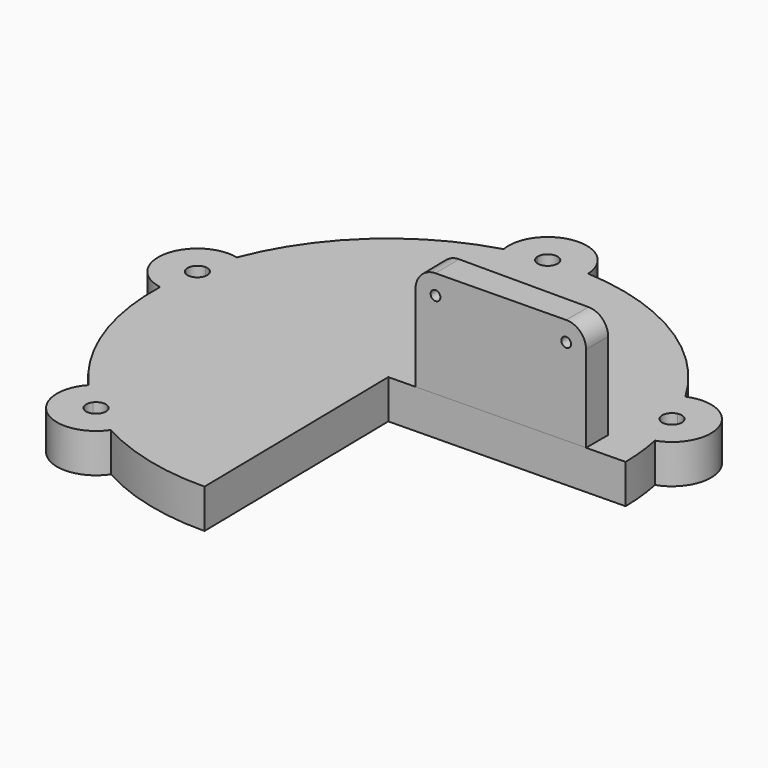
from build123d import *

# Parameters (mm, degrees)
F1_DEPTH = 3.175
F3_DEPTH = 8.636
F4_R     = 1.6002
F5_R     = 0.3937
F6_DEPTH = 25.4
F7_DEPTH = 25.4


with BuildPart() as f1:
    # F0 (on Top) → F1 (new body)
    with BuildSketch(Plane.XY):
        with BuildLine():
            ThreePointArc((31.2392285465, -28.7320576953), (35.8370397612, -30.5372732521), (40.7444173623, -31.0996932487))
            Line((40.7444173623, -31.0996932487), (40.4414878789, -12.0521019645))
            Line((40.4414878789, -12.0521019645), (59.489079163, -11.7491724811))
            ThreePointArc((59.489079163, -11.7491724811), (59.3824551279, -10.0168477616), (59.1186092237, -8.3014169243))
            ThreePointArc((59.1186092237, -8.3014169243), (58.8457012348, -7.1340301115), (58.4999035926, -5.9861212597))
            ThreePointArc((58.4999035926, -5.9861212597), (57.3481289048, -5.5817963761), (57.9356764569, -4.5118190787))
            ThreePointArc((57.9356764569, -4.5118190787), (57.4267405613, -3.4263445302), (56.8505347882, -2.3750321845))
            ThreePointArc((56.8505347882, -2.3750321845), (50.3338026609, 4.2280887055), (41.4709261237, 6.9700629202))
            ThreePointArc((41.4709261237, 6.9700629202), (40.2797629673, 6.9972115416), (39.0892324485, 6.949842811))
            ThreePointArc((39.0892324485, 6.949842811), (39.096904661, 6.8862640952), (39.0994675382, 6.822275443))
            ThreePointArc((39.0994675382, 6.822275443), (38.3257250063, 6.0226097042), (37.5010041114, 6.7695891182))
            ThreePointArc((37.5010041114, 6.7695891182), (36.33013815, 6.5489545487), (35.1753550199, 6.2555561247))
            ThreePointArc((35.1753550199, 6.2555561247), (27.5701803077, 1.991827023), (22.66118966, -5.2137179999))
            ThreePointArc((22.66118966, -5.2137179999), (22.2660417046, -6.3463455408), (21.9429633319, -7.5015976424))
            ThreePointArc((21.9429633319, -7.5015976424), (22.4949706136, -7.7432037883), (22.7218707315, -8.3014169243))
            ThreePointArc((22.7218707315, -8.3014169243), (22.3727631285, -8.9622995673), (21.6300925341, -9.0464564127))
            ThreePointArc((21.6300925341, -9.0464564127), (21.4782165965, -10.2363810963), (21.4015341389, -11.4335055067))
            ThreePointArc((21.4015341389, -11.4335055067), (22.5472730496, -18.5865931952), (26.2806968621, -24.7947271956))
            ThreePointArc((26.2806968621, -24.7947271956), (27.1038904808, -25.6539766753), (27.9791241647, -26.4601549439))
            ThreePointArc((27.9791241647, -26.4601549439), (28.8701686575, -26.1957695514), (29.4100136292, -26.9523588259))
            ThreePointArc((29.4100136292, -26.9523588259), (29.3642656384, -27.2190291398), (29.2322532085, -27.4552041879))
            ThreePointArc((29.2322532085, -27.4552041879), (30.2157917864, -28.1249871885), (31.2392285465, -28.7320576953))
        make_face()
        with BuildLine():
            ThreePointArc((26.2806968621, -24.7947271956), (26.6355383886, -29.438815624), (31.2392285465, -28.7320576953))
            ThreePointArc((31.2392285465, -28.7320576953), (30.2157917864, -28.1249871885), (29.2322532085, -27.4552041879))
            ThreePointArc((29.2322532085, -27.4552041879), (28.1123710686, -27.578945939), (27.9791241647, -26.4601549439))
            ThreePointArc((27.9791241647, -26.4601549439), (27.1038904808, -25.6539766753), (26.2806968621, -24.7947271956))
        make_face()
        with BuildLine():
            ThreePointArc((58.4999035926, -5.9861212597), (58.8457012348, -7.1340301115), (59.1186092237, -8.3014169243))
            ThreePointArc((59.1186092237, -8.3014169243), (61.0606385443, -4.1609894973), (56.8505347882, -2.3750321845))
            ThreePointArc((56.8505347882, -2.3750321845), (57.4267405613, -3.4263445302), (57.9356764569, -4.5118190787))
            ThreePointArc((57.9356764569, -4.5118190787), (58.6015298758, -4.6761681541), (58.895475254, -5.2958192727))
            ThreePointArc((58.895475254, -5.2958192727), (58.7895737608, -5.6936238015), (58.4999035926, -5.9861212597))
        make_face()
        with BuildLine():
            ThreePointArc((22.66118966, -5.2137179999), (18.809946607, -7.6711982175), (21.4015341389, -11.4335055067))
            ThreePointArc((21.4015341389, -11.4335055067), (21.4782165965, -10.2363810963), (21.6300925341, -9.0464564127))
            ThreePointArc((21.6300925341, -9.0464564127), (21.1375910521, -8.1426018102), (21.9429633319, -7.5015976424))
            ThreePointArc((21.9429633319, -7.5015976424), (22.2660417046, -6.3463455408), (22.66118966, -5.2137179999))
        make_face()
        with BuildLine():
            ThreePointArc((39.0892324485, 6.949842811), (40.2797629673, 6.9972115416), (41.4709261237, 6.9700629202))
            ThreePointArc((41.4709261237, 6.9700629202), (37.9413240389, 9.9770226362), (35.1753550199, 6.2555561247))
            ThreePointArc((35.1753550199, 6.2555561247), (36.33013815, 6.5489545487), (37.5010041114, 6.7695891182))
            ThreePointArc((37.5010041114, 6.7695891182), (38.2091405764, 7.6172717357), (39.0892324485, 6.949842811))
        make_face()
    extrude(amount=F1_DEPTH)

    # F2 (on face) → F3 (join)
    with BuildSketch(Plane.XY.offset(3.175)):
        Polygon((42.631557275, -12.0172714927), (56.3164878789, -11.7996288052), (56.3164878789, -9.556004395), (42.5924137235, -9.556004395), align=None)
    extrude(amount=F3_DEPTH)

    # F4
    f4_edges = [f1.edges().sort_by_distance(p)[0] for p in [
        (42.611985, -10.786638, 11.811),
        (56.316488, -10.677817, 11.811),
    ]]
    fillet(f4_edges, radius=F4_R)

    # F5 (on face) → F6 (cut)
    with BuildSketch(Plane(origin=(0.2018523454, -12.6920659276, 0), x_dir=(0.9998735582, 0.0159018102, 0), z_dir=(0.0159018102, -0.9998735582, 0))):
        with Locations((44.0352704953, 10.2108)):
            Circle(F5_R)
    extrude(amount=-F6_DEPTH, mode=Mode.SUBTRACT)

    # F5 (on face) → F7 (cut)
    with BuildSketch(Plane(origin=(0.2018523454, -12.6920659276, 0), x_dir=(0.9998735582, 0.0159018102, 0), z_dir=(0.0159018102, -0.9998735582, 0))):
        with Locations((44.0352704953, 10.2108)):
            Circle(F5_R)
        with Locations((54.5213293072, 10.2108)):
            Circle(F5_R)
    extrude(amount=-F7_DEPTH, mode=Mode.SUBTRACT)


solid = f1.part
